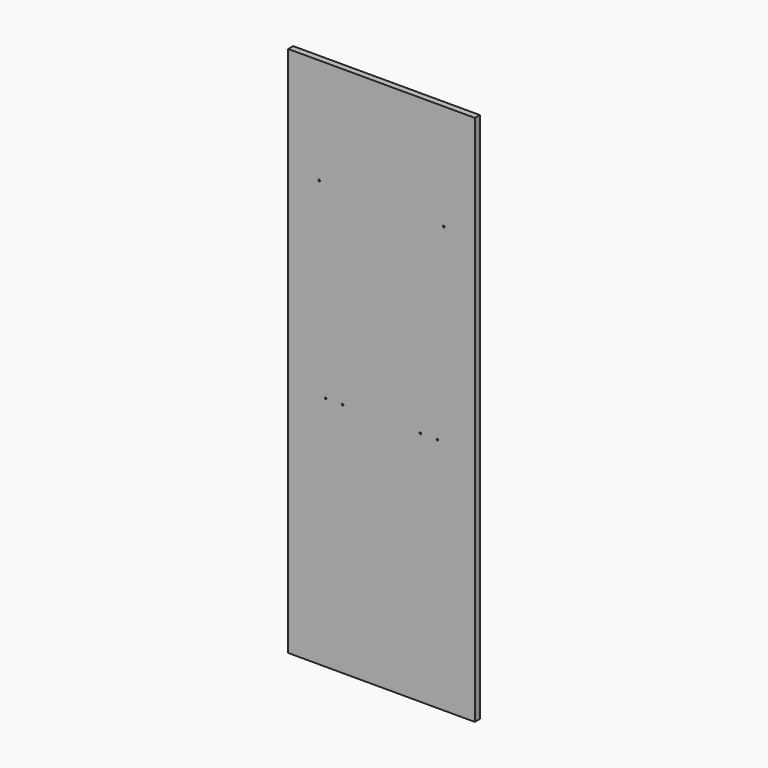
from build123d import *

# Parameters (mm, degrees)
F0_W     = 600
F0_H     = 1710
F0_R     = 2.5
F1_DEPTH = 20


with BuildPart() as f1:
    # F0 (on Front) → F1 (new body)
    with BuildSketch(Plane.XZ):
        Rectangle(F0_W, F0_H)
        with Locations((-180, -95)):
            Circle(F0_R, mode=Mode.SUBTRACT)
        with Locations((-125, -95)):
            Circle(F0_R, mode=Mode.SUBTRACT)
        with Locations((125, -95)):
            Circle(F0_R, mode=Mode.SUBTRACT)
        with Locations((180, -95)):
            Circle(F0_R, mode=Mode.SUBTRACT)
        with Locations((-200, 515)):
            Circle(F0_R, mode=Mode.SUBTRACT)
        with Locations((200, 515)):
            Circle(F0_R, mode=Mode.SUBTRACT)
    extrude(amount=F1_DEPTH)


solid = f1.part
